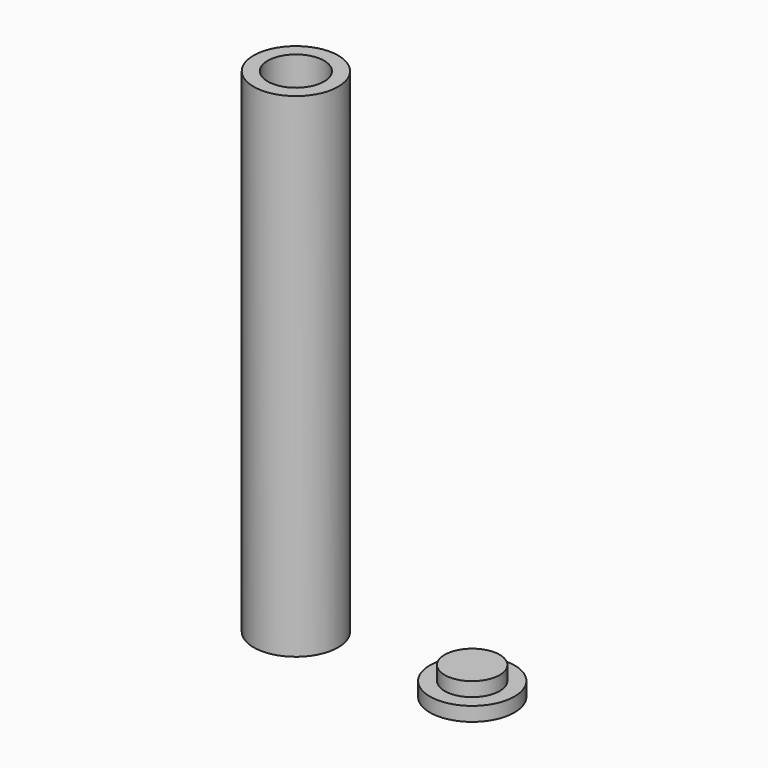
from build123d import *

# Parameters (mm, degrees)
F0_R     = 6
F0_R_2   = 4
F1_DEPTH = 70
F2_DEPTH = 2
F0_R_3   = 3.9
F3_DEPTH = 2
F4_DEPTH = 4


with BuildPart() as f1:
    # F0 (on Top) → F1 (new body)
    with BuildSketch(Plane.XY):
        Circle(F0_R)
        Circle(F0_R_2, mode=Mode.SUBTRACT)
    extrude(amount=F1_DEPTH)

    # F0 (on Top) → F2 (join)
    with BuildSketch(Plane.XY):
        Circle(F0_R_2)
    extrude(amount=F2_DEPTH)


with BuildPart() as f3:
    # F0 (on Top) → F3 (new body)
    with BuildSketch(Plane.XY):
        with Locations((25, 0)):
            Circle(F0_R)
        with Locations((25, 0)):
            Circle(F0_R_3, mode=Mode.SUBTRACT)
    extrude(amount=F3_DEPTH)

    # F0 (on Top) → F4 (join)
    with BuildSketch(Plane.XY):
        with Locations((25, 0)):
            Circle(F0_R_3)
    extrude(amount=F4_DEPTH)


solid = Compound([f1.part, f3.part])
